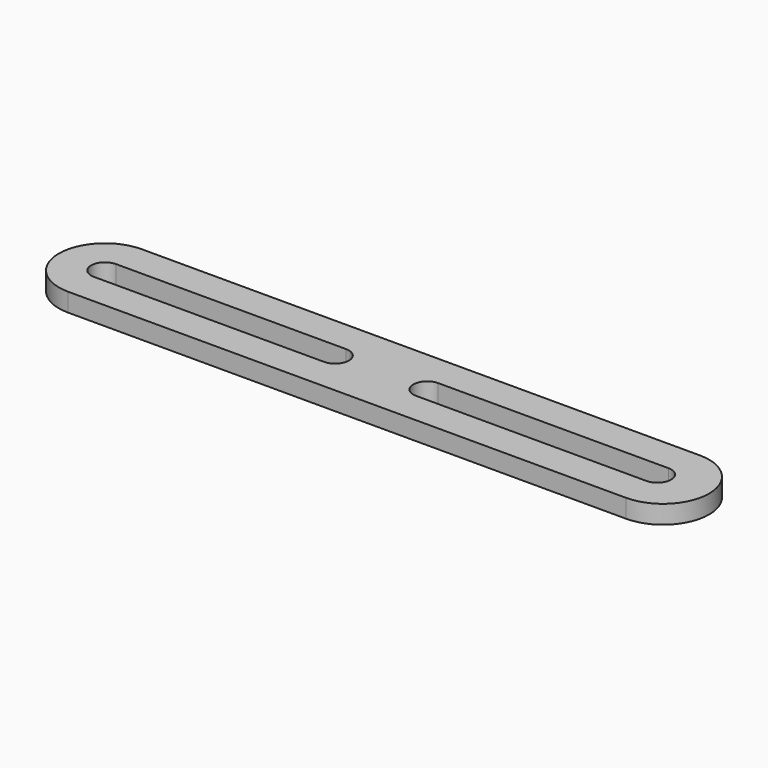
from build123d import *

# Parameters (mm, degrees)
PAD_DEPTH = 4


with BuildPart() as part:
    # Sketch → Pad (new body)
    with BuildSketch(Plane.XY):
        with BuildLine():
            ThreePointArc((0, 10), (-10, 0), (0, -10))
            Line((0, -10), (121.237625, -10))
            ThreePointArc((121.237625, -10), (131.237625, 0), (121.237625, 10))
            Line((0, 10), (121.237625, 10))
        make_face()
        with BuildLine():
            ThreePointArc((0, 3), (-3, 0), (0, -3))
            Line((0, -3), (50, -3))
            ThreePointArc((50, -3), (53, 0), (50, 3))
            Line((0, 3), (50, 3))
        make_face(mode=Mode.SUBTRACT)
        with BuildLine():
            ThreePointArc((70, 3), (67, 0), (70, -3))
            Line((70, -3), (120, -3))
            ThreePointArc((120, -3), (123, 0), (120, 3))
            Line((70, 3), (120, 3))
        make_face(mode=Mode.SUBTRACT)
    extrude(amount=PAD_DEPTH)


solid = part.part
